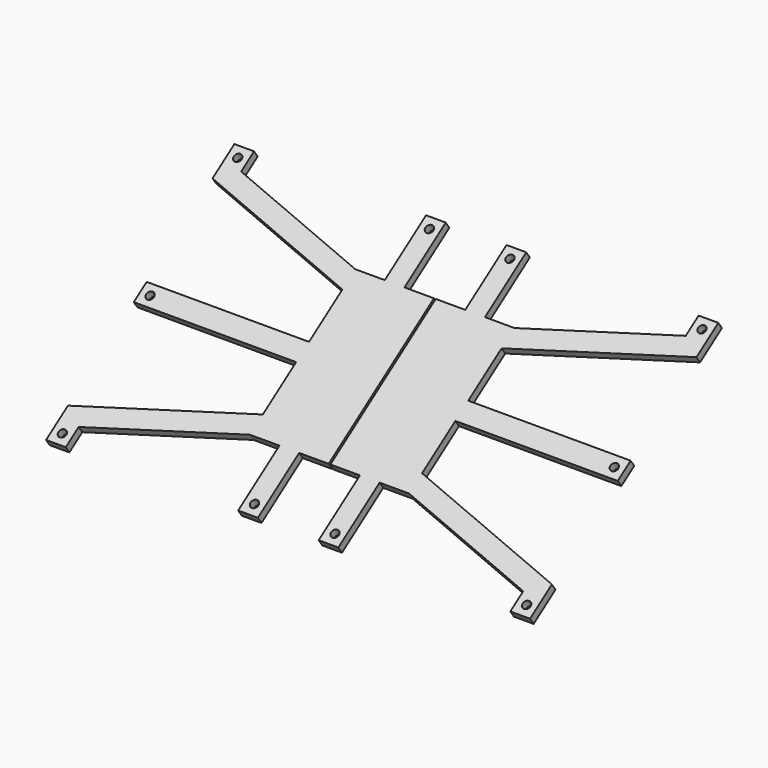
from build123d import *

# Parameters (mm, degrees)
SKETCH033_AS_DRAWN_R                 = 2
EXTRUDE031_DEPTH                     = 4
EXTRUDE031_ONTO_SKETCH033_ROLL_ANGLE = 90
EXTRUDE031_PLACEMENT_ANGLE           = 55


with BuildPart() as extrude031:
    # Sketch033 as drawn → Extrude031 (new)
    with BuildSketch(Plane.XY):
        Polygon((-81.891721, 135.846502), (-71.891721, 135.846502), (-71.891721, 125.846502), (0.608279, 103.681028), (15.608279, 103.681028), (15.608279, 135.681028), (25.608279, 135.681028), (25.608279, 103.681028), (40.608279, 103.681028), (40.608279, 22.011977), (25.608279, 22.011977), (25.608279, -9.988023), (15.608279, -9.988023), (15.608279, 22.011977), (0.608279, 22.011977), (-71.891721, -0.153498), (-71.891721, -10.153498), (-81.891721, -10.153498), (-81.891721, 6.789195), (0.608279, 32.011977), (0.608279, 57.846502), (-81.891721, 57.846502), (-81.891721, 67.846502), (0.608279, 67.846502), (0.608279, 93.681028), (-81.891721, 118.903809), align=None)
        with Locations((-76.891721, 130.846502)):
            Circle(SKETCH033_AS_DRAWN_R, mode=Mode.SUBTRACT)
        with Locations((-76.891721, 62.846502)):
            Circle(SKETCH033_AS_DRAWN_R, mode=Mode.SUBTRACT)
        with Locations((-76.891721, -5.153498)):
            Circle(SKETCH033_AS_DRAWN_R, mode=Mode.SUBTRACT)
        with Locations((20.608279, 130.681028)):
            Circle(SKETCH033_AS_DRAWN_R, mode=Mode.SUBTRACT)
        with Locations((20.608279, -4.988023)):
            Circle(SKETCH033_AS_DRAWN_R, mode=Mode.SUBTRACT)
    extrude(amount=-EXTRUDE031_DEPTH)


with BuildPart() as extrude031_1:
    # Extrude031 onto Sketch033 roll: moved
    add(extrude031.part.rotate(Axis((0, 0, 0), (1, 0, 0)), EXTRUDE031_ONTO_SKETCH033_ROLL_ANGLE))


with BuildPart() as extrude031_2:
    # Extrude031 onto Sketch033 placement: moved
    add(extrude031_1.part)


with BuildPart() as extrude031_3:
    # Extrude031 placement: moved
    add(extrude031_2.part.moved(Location((-0.059697, 5.449525, -7.78156))).rotate(Axis((-0.059697, 5.449525, -7.78156), (-1, 0, 0)), EXTRUDE031_PLACEMENT_ANGLE))


with BuildPart() as rear_tablet_holder001:
    # Part__Mirroring001: instance of Extrude031
    add(extrude031_3.part.mirror(Plane(origin=(41, 0, 0), x_dir=(0, -1, 0), z_dir=(1, 0, 0))))

    # Fusion137: union Extrude031
    add(extrude031_3.part)


with BuildPart() as rear_tablet_holder001_1:
    # Fusion137 placement: moved
    add(rear_tablet_holder001.part.moved(Location((-37.5, 69.75, 1352.2))))


solid = rear_tablet_holder001_1.part
